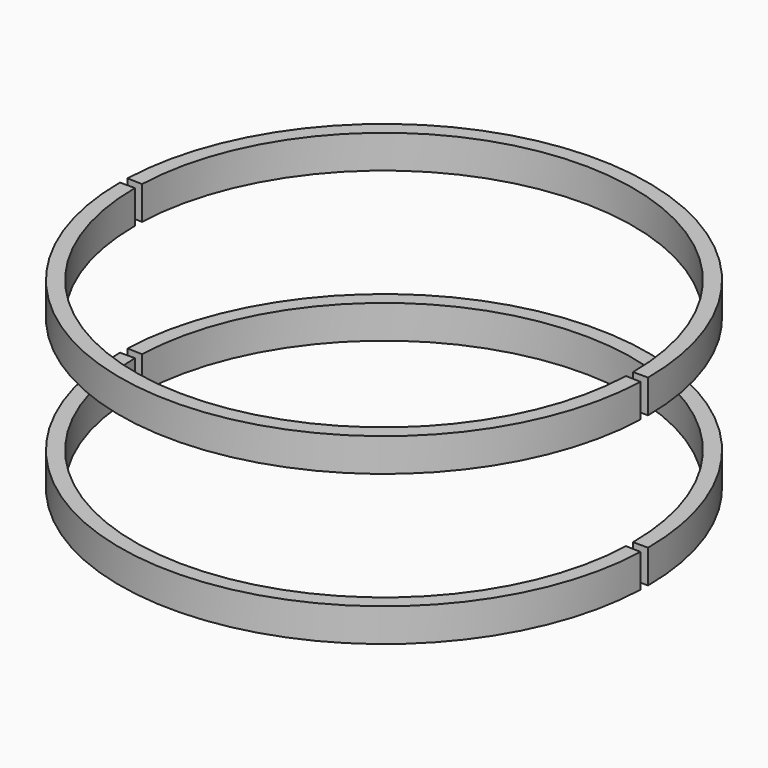
from build123d import *

# Parameters (mm, degrees)
CYLINDER081_R          = 22.45
CYLINDER081_DEPTH      = 17
CYLINDER080_W          = 23.8
CYLINDER080_H          = 3
CYLINDER080_ANGLE      = 178
CUT037_PLACEMENT_ANGLE = 180
CYLINDER079_R          = 22.45
CYLINDER079_DEPTH      = 17
CYLINDER078_W          = 23.8
CYLINDER078_H          = 3
CYLINDER078_ANGLE      = 178
CUT036_PLACEMENT_ANGLE = 180


with BuildPart() as cylinder081:
    # Cylinder081 → Cylinder081 (new body)
    with BuildSketch(Plane.XY):
        Circle(CYLINDER081_R)
    extrude(amount=CYLINDER081_DEPTH)


with BuildPart() as cylinder080:
    # Cylinder080 → Cylinder080 (revolve)
    with BuildSketch(Plane(origin=(0, 0, 1.8), x_dir=(1, 0, 0), z_dir=(0, -1, 0))):
        with Locations((11.9, 1.5)):
            Rectangle(CYLINDER080_W, CYLINDER080_H)
    revolve(axis=Axis((0, 0, 1.8), (0, 0, 1)), revolution_arc=CYLINDER080_ANGLE)


with BuildPart() as cut037:
    # Cut037 base: copy of Cylinder080
    add(cylinder080.part)

    # Cut037: cut Cylinder081
    add(cylinder081.part, mode=Mode.SUBTRACT)


with BuildPart() as cut037_1:
    # Cut037 placement: moved
    add(cut037.part.rotate(Axis((0, 0, 0), (0, 0, 1)), CUT037_PLACEMENT_ANGLE))


with BuildPart() as cylinder079:
    # Cylinder079 → Cylinder079 (new body)
    with BuildSketch(Plane.XY):
        Circle(CYLINDER079_R)
    extrude(amount=CYLINDER079_DEPTH)


with BuildPart() as cylinder078:
    # Cylinder078 → Cylinder078 (revolve)
    with BuildSketch(Plane(origin=(0, 0, 1.8), x_dir=(1, 0, 0), z_dir=(0, -1, 0))):
        with Locations((11.9, 1.5)):
            Rectangle(CYLINDER078_W, CYLINDER078_H)
    revolve(axis=Axis((0, 0, 1.8), (0, 0, 1)), revolution_arc=CYLINDER078_ANGLE)


with BuildPart() as fusion078:
    # Cut038 base: copy of Cylinder078
    add(cylinder078.part)

    # Cut038: cut Cylinder079
    add(cylinder079.part, mode=Mode.SUBTRACT)

    # Fusion078: union Cut037
    add(cut037_1.part)


with BuildPart() as cut036:
    # Cut036 base: copy of Cylinder080
    add(cylinder080.part)

    # Cut036: cut Cylinder081
    add(cylinder081.part, mode=Mode.SUBTRACT)


with BuildPart() as cut036_1:
    # Cut036 placement: moved
    add(cut036.part.rotate(Axis((0, 0, 0), (0, 0, 1)), CUT036_PLACEMENT_ANGLE))


with BuildPart() as obj1:
    # Cut035 base: copy of Cylinder078
    add(cylinder078.part)

    # Cut035: cut Cylinder079
    add(cylinder079.part, mode=Mode.SUBTRACT)

    # Fusion079: union Cut036
    add(cut036_1.part)


with BuildPart() as obj1_1:
    # Fusion079 placement: moved
    add(obj1.part.moved(Location((0, 0, 13.5))))

    # Fusion077: union Fusion078
    add(fusion078.part)


with BuildPart() as obj1_2:
    # Fusion077 placement: moved
    add(obj1_1.part.moved(Location((0, 0, -20))))


solid = obj1_2.part
